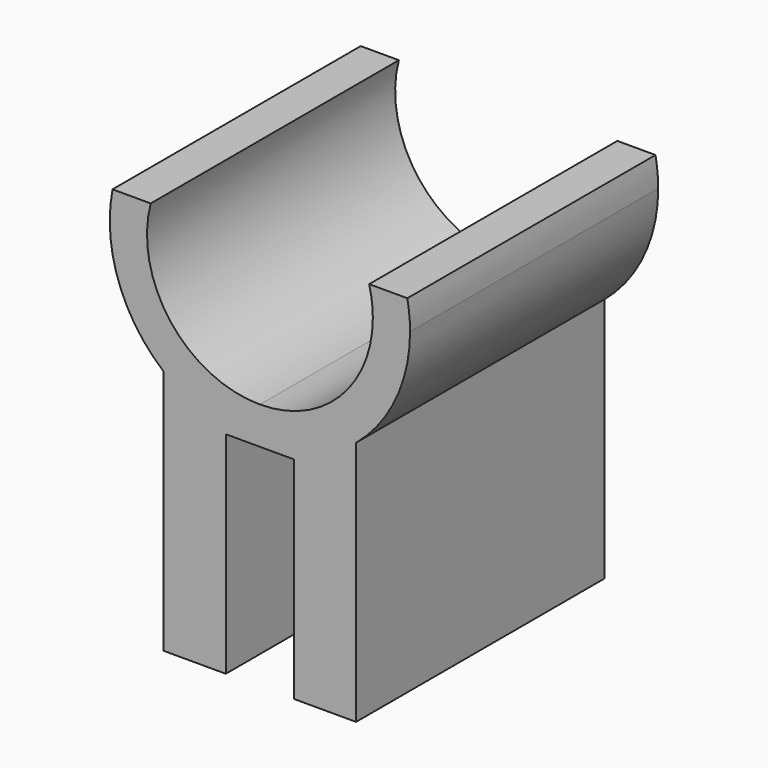
from build123d import *

# Parameters (mm, degrees)
F1_DEPTH = 25


with BuildPart() as f1:
    # F0 (on Front) → F1 (new body)
    with BuildSketch(Plane.XZ):
        with BuildLine():
            Line((-1.422933, 10.220143), (1.327067, 10.220143))
            Line((1.327067, 10.220143), (6.327067, 10.220143))
            Line((6.327067, 10.220143), (6.327067, 10.027808))
            ThreePointArc((6.327067, 10.027808), (9.535739, 14.190085), (10.677067, 19.320143))
            ThreePointArc((10.677067, 19.320143), (10.621655, 20.476818), (10.455927, 21.622899))
            Line((10.455927, 21.622899), (7.380891, 21.622899))
            ThreePointArc((7.380891, 21.622899), (7.602719, 20.481005), (7.677067, 19.320143))
            ThreePointArc((7.677067, 19.320143), (5.011739, 12.885472), (-1.422933, 10.220143))
        make_face()
        with BuildLine():
            ThreePointArc((-9.172933, 10.027808), (-6.818653, 8.489806), (-4.172933, 7.536787))
            Line((-4.172933, 7.536787), (-4.172933, 10.220143))
            Line((-4.172933, 10.220143), (-9.172933, 10.220143))
            Line((-9.172933, 10.220143), (-9.172933, 10.027808))
        make_face()
        with BuildLine():
            ThreePointArc((-4.172933, 7.536787), (-2.807018, 7.299565), (-1.422933, 7.220143))
            ThreePointArc((-1.422933, 7.220143), (-0.038848, 7.299565), (1.327067, 7.536787))
            Line((1.327067, 7.536787), (1.327067, 10.220143))
            Line((1.327067, 10.220143), (-1.422933, 10.220143))
            Line((-1.422933, 10.220143), (-4.172933, 10.220143))
            Line((-4.172933, 10.220143), (-4.172933, 7.536787))
        make_face()
        with BuildLine():
            Line((1.327067, 10.220143), (1.327067, 7.536787))
            ThreePointArc((1.327067, 7.536787), (3.972787, 8.489806), (6.327067, 10.027808))
            Line((6.327067, 10.027808), (6.327067, 10.220143))
            Line((6.327067, 10.220143), (1.327067, 10.220143))
        make_face()
        with BuildLine():
            Line((1.327067, 7.536787), (1.327067, 7.220143))
            Line((1.327067, 7.220143), (1.327067, -9.779857))
            Line((1.327067, -9.779857), (6.327067, -9.779857))
            Line((6.327067, -9.779857), (6.327067, 10.027808))
            ThreePointArc((6.327067, 10.027808), (3.972787, 8.489806), (1.327067, 7.536787))
        make_face()
        with BuildLine():
            ThreePointArc((1.327067, 7.536787), (-0.038848, 7.299565), (-1.422933, 7.220143))
            Line((-1.422933, 7.220143), (1.327067, 7.220143))
            Line((1.327067, 7.220143), (1.327067, 7.536787))
        make_face()
        with BuildLine():
            Line((-4.172933, 7.536787), (-4.172933, 7.220143))
            Line((-4.172933, 7.220143), (-1.422933, 7.220143))
            ThreePointArc((-1.422933, 7.220143), (-2.807018, 7.299565), (-4.172933, 7.536787))
        make_face()
        with BuildLine():
            Line((-4.172933, -9.779857), (-4.172933, 7.220143))
            Line((-4.172933, 7.220143), (-4.172933, 7.536787))
            ThreePointArc((-4.172933, 7.536787), (-6.818653, 8.489806), (-9.172933, 10.027808))
            Line((-9.172933, 10.027808), (-9.172933, -9.779857))
            Line((-9.172933, -9.779857), (-4.172933, -9.779857))
        make_face()
        with BuildLine():
            Line((-9.172933, 10.220143), (-4.172933, 10.220143))
            Line((-4.172933, 10.220143), (-1.422933, 10.220143))
            ThreePointArc((-1.422933, 10.220143), (-8.625886, 13.758897), (-10.226757, 21.622899))
            Line((-10.226757, 21.622899), (-13.301793, 21.622899))
            ThreePointArc((-13.301793, 21.622899), (-12.821818, 15.26115), (-9.172933, 10.027808))
            Line((-9.172933, 10.027808), (-9.172933, 10.220143))
        make_face()
    extrude(amount=F1_DEPTH)


solid = f1.part
